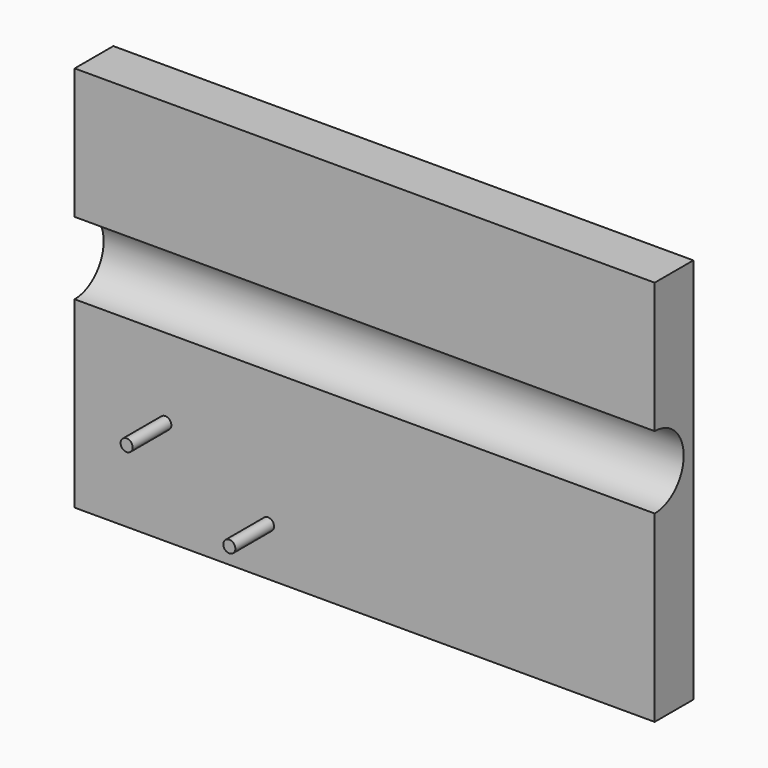
from build123d import *

# Parameters (mm, degrees)
F0_W     = 304.8
F0_H     = 203.2
F1_DEPTH = 25.4
F2_R     = 3.175
F3_DEPTH = 25.4


with BuildPart() as f1:
    # F0 (on Front) → F1 (new body)
    with BuildSketch(Plane.XZ):
        with Locations((-3.048005, 2.967953)):
            Rectangle(F0_W, F0_H)
    extrude(amount=F1_DEPTH)

    # F2 (on face) → F3 (join)
    with BuildSketch(Plane.XZ.offset(25.4)):
        with Locations((-53.848005, -73.232047)):
            Circle(F2_R)
        with Locations((-107.806627, -43.933121)):
            Circle(F2_R)
    extrude(amount=F3_DEPTH)

    # F4 (on face) → F5 (revolve, cut)
    with BuildSketch(Plane.XZ.offset(25.4)):
        Polygon((149.351995, 16.831879), (-155.448005, 16.831879), (-155.448005, -2.218121), (-76.879319, -2.218121), (149.351995, -2.218121), align=None)
    revolve(axis=Axis((-3.048005, -25.4, 16.831879), (1, 0, 0)), mode=Mode.SUBTRACT)


solid = f1.part
